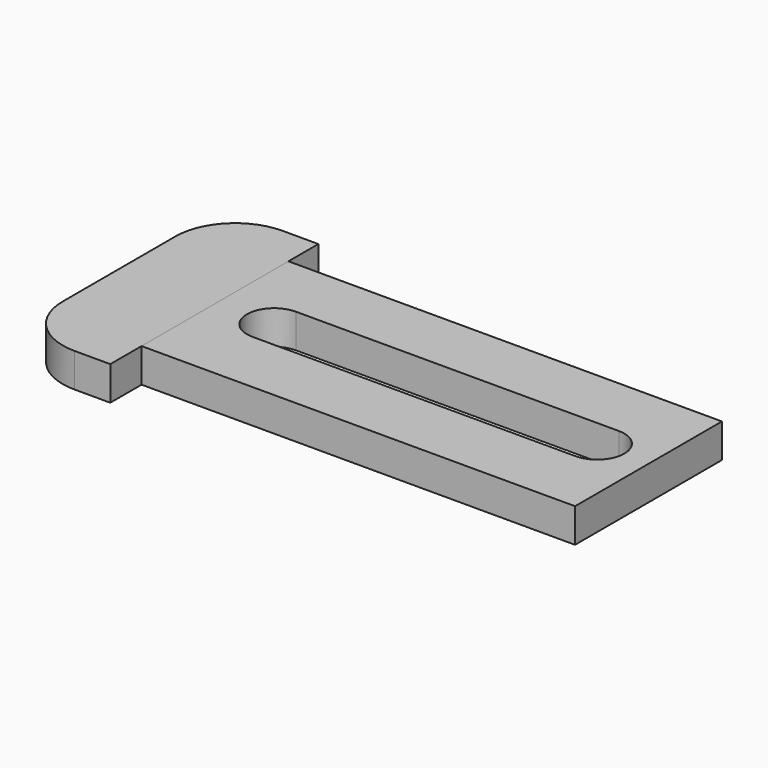
from build123d import *

# Parameters (mm, degrees)
CYLINDER001_R     = 1.6
CYLINDER001_DEPTH = 10
CYLINDER_R        = 1.6
CYLINDER_DEPTH    = 10
BOX002_W          = 19
BOX002_H          = 3.2
BOX002_DEPTH      = 10
BOX001_W          = 26.1
BOX001_H          = 10.8
BOX001_DEPTH      = 2
BOX_W             = 5.6
BOX_H             = 15.3
BOX_DEPTH         = 2
FILLET_R          = 3.5
FILLET001_R       = 3.5


with BuildPart() as cilindro001:
    # Cylinder001 → Cylinder001 (new body)
    with BuildSketch(Plane(origin=(31, 7.5, -3), x_dir=(1, 0, 0), z_dir=(0, 0, 1))):
        Circle(CYLINDER001_R)
    extrude(amount=CYLINDER001_DEPTH)


with BuildPart() as cilindro:
    # Cylinder → Cylinder (new body)
    with BuildSketch(Plane(origin=(12, 7.5, -3), x_dir=(1, 0, 0), z_dir=(0, 0, 1))):
        Circle(CYLINDER_R)
    extrude(amount=CYLINDER_DEPTH)


with BuildPart() as fusion:
    # Box002 → Box002 (new body)
    with BuildSketch(Plane(origin=(12, 5.9, -2), x_dir=(1, 0, 0), z_dir=(0, 0, 1))):
        with Locations((9.5, 1.6)):
            Rectangle(BOX002_W, BOX002_H)
    extrude(amount=BOX002_DEPTH)

    # Fusion: union Cilindro001, Cilindro
    add(cilindro001.part)
    add(cilindro.part)


with BuildPart() as cut:
    # Box001 → Box001 (new body)
    with BuildSketch(Plane(origin=(8, 2, 0), x_dir=(1, 0, 0), z_dir=(0, 0, 1))):
        with Locations((13.05, 5.4)):
            Rectangle(BOX001_W, BOX001_H)
    extrude(amount=BOX001_DEPTH)

    # Cut: cut Fusion
    add(fusion.part, mode=Mode.SUBTRACT)


with BuildPart() as fillet001:
    # Box → Box (new body)
    with BuildSketch(Plane(origin=(3, -0.3, 0), x_dir=(1, 0, 0), z_dir=(0, 0, 1))):
        with Locations((2.8, 7.65)):
            Rectangle(BOX_W, BOX_H)
    extrude(amount=BOX_DEPTH)

    # Fillet
    fillet_edges = [fillet001.edges().sort_by_distance(p)[0] for p in [
        (3, 15, 1),
    ]]
    fillet(fillet_edges, radius=FILLET_R)

    # Fillet001
    fillet001_edges = [fillet001.edges().sort_by_distance(p)[0] for p in [
        (3, -0.3, 1),
    ]]
    fillet(fillet001_edges, radius=FILLET001_R)


solid = Compound([cut.part, fillet001.part])
